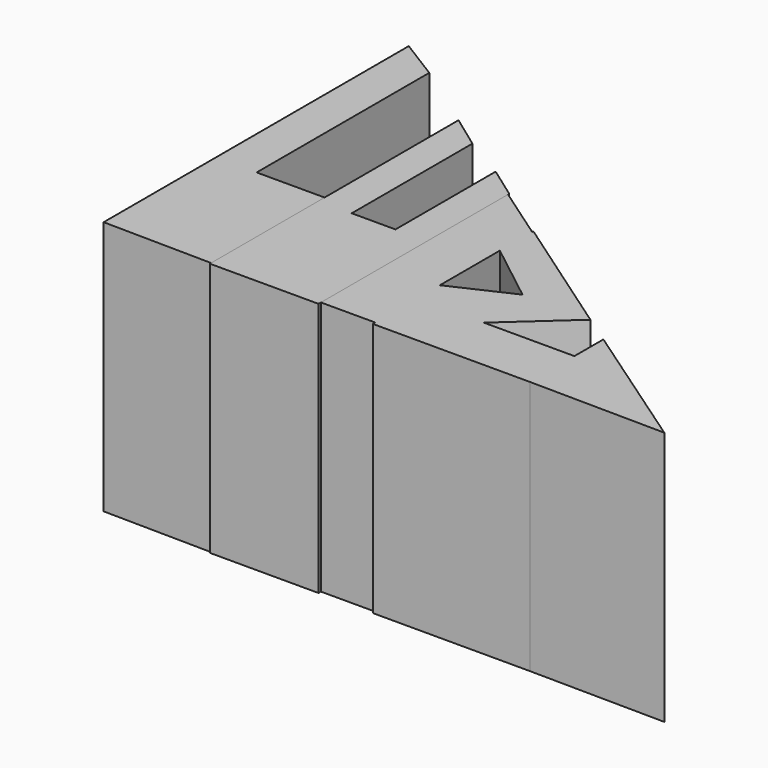
from build123d import *

# Parameters (mm, degrees)
F5_DEPTH = 30
F6_DEPTH = 30
F7_DEPTH = 30
F8_DEPTH = 30
F9_DEPTH = 30


with BuildPart() as f5:
    # F0 (on Top) → F5 (new body)
    with BuildSketch(Plane.XY):
        Polygon((-20.8026, 29.159199), (-25.603201, 32.138883), (-25.603201, -12.8016), (-12.6238, -12.9794), (-12.6238, 3.7338), (-20.8026, 3.7338), align=None)
    extrude(amount=F5_DEPTH)


with BuildPart() as f6:
    # F2 (on Top) → F6 (new body)
    with BuildSketch(Plane.XY):
        Polygon((6.4008, 10.3124), (0, 14.7574), (0, -12.8016), (6.4008, -12.8016), align=None)
    extrude(amount=F6_DEPTH)

    # F3 (on Top) → F8 (join)
    with BuildSketch(Plane.XY):
        Polygon((21.513801, 0), (6.4008, 10.4902), (6.223, 5.6896), (13.5128, 0), (6.4008, -3.2893), (6.4008, -13.1572), (25.069803, -13.1572), (25.069803, -6.5786), (14.224, -6.5786), align=None)
    extrude(amount=F8_DEPTH)

    # F4 (on Top) → F9 (join)
    with BuildSketch(Plane.XY):
        Polygon((24.892, -2.3114), (24.892, -13.1572), (40.894002, -13.335001), align=None)
    extrude(amount=F9_DEPTH)


with BuildPart() as f7:
    # F1 (on Top) → F7 (new body)
    with BuildSketch(Plane.XY):
        Polygon((-12.8016, 23.469599), (-12.8016, -13.1572), (0, -13.1572), (0, 14.9352), (-3.7338, 17.6022), (-3.7338, 2.8448), (-8.89, 2.8448), (-8.89, 20.6248), align=None)
    extrude(amount=F7_DEPTH)


solid = Compound([f5.part, f6.part, f7.part])
